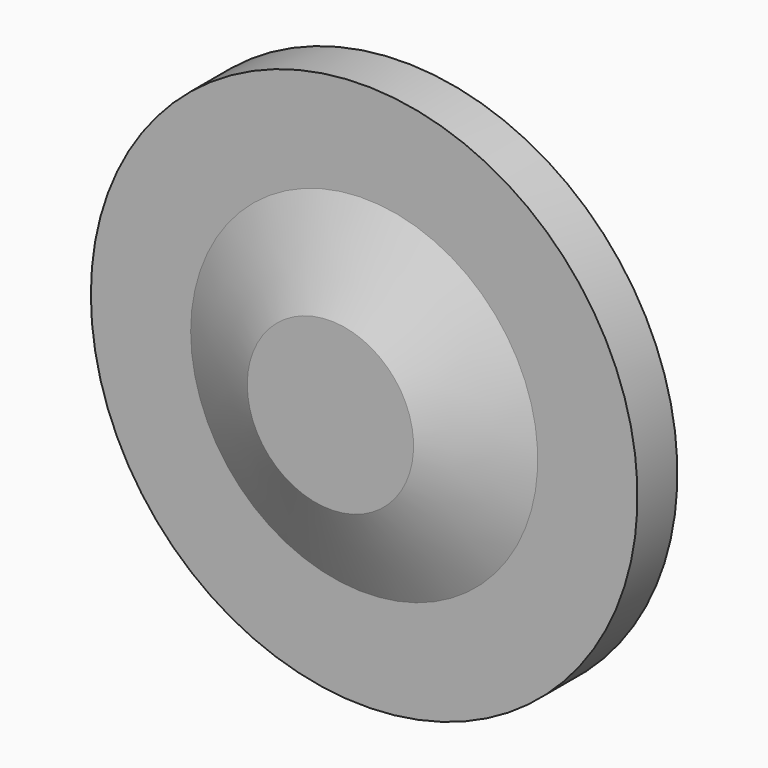
from build123d import *

# Parameters (mm, degrees)
F0_W   = 152.4
F0_H   = 76.2
F0_W_2 = 127


with BuildPart() as f1:
    # F0 (on Top) → F1 (revolve)
    with BuildSketch(Plane.XY):
        with Locations((-214.321307, 102.507023)):
            Rectangle(F0_W, F0_H)
        Polygon((-138.121307, 64.407023), (0, 0), (0, 76.2), (-138.121307, 140.607023), align=None)
        with Locations((63.5, 38.1)):
            Rectangle(F0_W_2, F0_H)
    revolve(axis=Axis((127, 38.1, 0), (0, 1, 0)))


solid = f1.part
